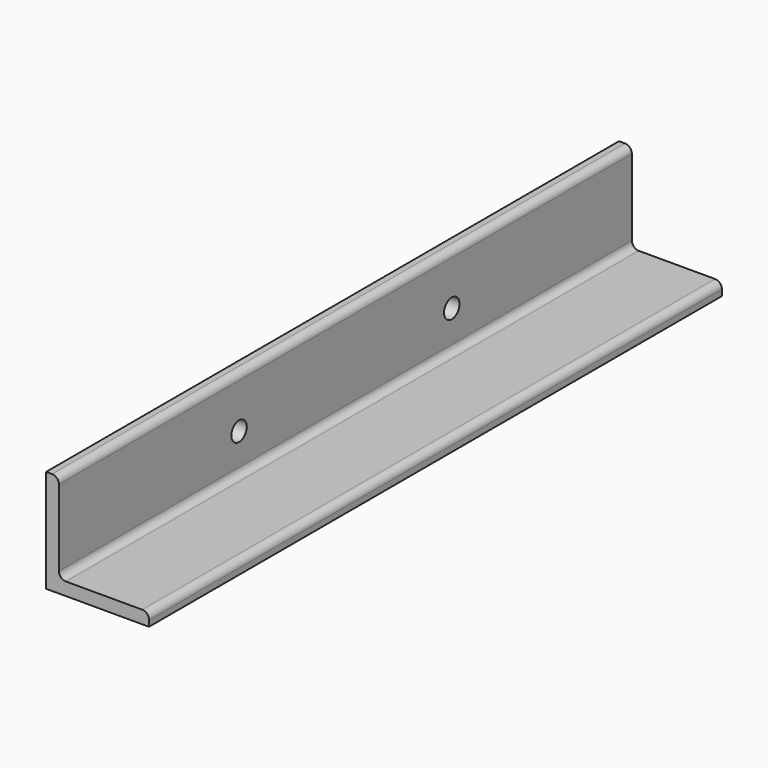
from build123d import *

# Parameters (mm, degrees)
F1_DEPTH = 265.1125
F2_R     = 5.08
F3_R     = 7.14375
F4_DEPTH = 25.4


with BuildPart() as f1:
    # F0 (on Front) → F1 (new body, symmetric)
    with BuildSketch(Plane.XZ):
        Polygon((0, 76.2), (0, 0), (76.2, 0), (76.2, 9.525), (9.525, 9.525), (9.525, 76.2), align=None)
    extrude(amount=F1_DEPTH, both=True)

    # F2
    f2_edges = [f1.edges().sort_by_distance(p)[0] for p in [
        (9.525, 0, 76.2),
        (9.525, 0, 9.525),
        (76.2, 0, 9.525),
    ]]
    fillet(f2_edges, radius=F2_R)

    # F3 (on face) → F4 (cut)
    with BuildSketch(Plane(origin=(0, 0, 0), x_dir=(0, -1, 0), z_dir=(-1, 0, 0))):
        with Locations((-98.425, 38.1)):
            Circle(F3_R)
        with Locations((98.425, 38.1)):
            Circle(F3_R)
    extrude(amount=-F4_DEPTH, mode=Mode.SUBTRACT)


solid = f1.part
